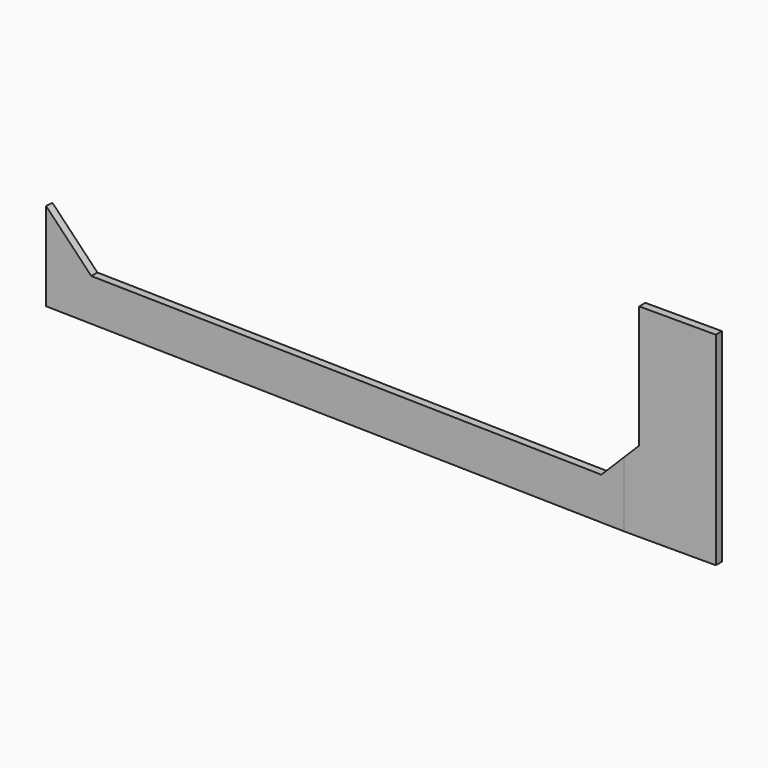
from build123d import *

# Parameters (mm, degrees)
EXTRUDE018_DEPTH = 60
EXTRUDE037_DEPTH = 26.5


with BuildPart() as body014:
    # Sketch022 → Extrude018 (new body)
    with BuildSketch(Plane.XZ.offset(46)):
        Polygon((-21, 7.5), (-102, 7.5), (-102, -12), (-94, -20), (-26, -20), (-21, -15), align=None)
    extrude(amount=-EXTRUDE018_DEPTH)


with BuildPart() as cut007:
    # Sketch044 → Extrude037 (new body)
    with BuildSketch(Plane.XY.offset(-25.5)):
        Polygon((-11, -1), (-23.012985, -1), (-100.025965, 1.000337), (-100, 2), (-23, 0), (-11, 0), align=None)
    extrude(amount=EXTRUDE037_DEPTH)

    # Cut007: cut Body014
    add(body014.part, mode=Mode.SUBTRACT)


solid = cut007.part
